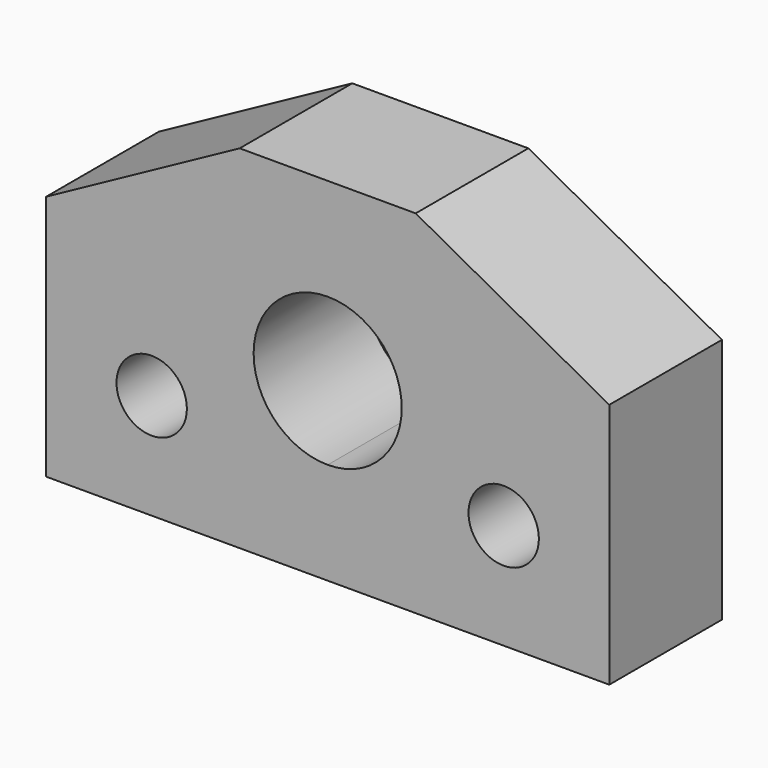
from build123d import *

# Parameters (mm, degrees)
F0_R     = 6.35
F1_DEPTH = 25.4


with BuildPart() as f1:
    # F0 (on Front) → F1 (new body)
    with BuildSketch(Plane.XZ):
        with BuildLine():
            Line((0, -3.317883), (0, 15.07361))
            Line((0, 15.07361), (-15.875, 15.07361))
            Line((-15.875, 15.07361), (-50.8, -3.97639))
            Line((-50.8, -3.97639), (-50.8, -48.42639))
            Line((-50.8, -48.42639), (0, -48.42639))
            Line((0, -48.42639), (0, -30.034896))
            ThreePointArc((0, -30.034896), (-13.358506, -16.67639), (0, -3.317883))
        make_face()
        with Locations((-31.75, -29.37639)):
            Circle(F0_R, mode=Mode.SUBTRACT)
        with BuildLine():
            Line((15.875, 15.07361), (0, 15.07361))
            Line((0, 15.07361), (0, -3.317883))
            ThreePointArc((0, -3.317883), (13.358506, -16.67639), (0, -30.034896))
            Line((0, -30.034896), (0, -48.42639))
            Line((0, -48.42639), (50.8, -48.42639))
            Line((50.8, -48.42639), (50.8, -3.97639))
            Line((50.8, -3.97639), (15.875, 15.07361))
        make_face()
        with Locations((31.75, -29.37639)):
            Circle(F0_R, mode=Mode.SUBTRACT)
    extrude(amount=F1_DEPTH)


solid = f1.part
